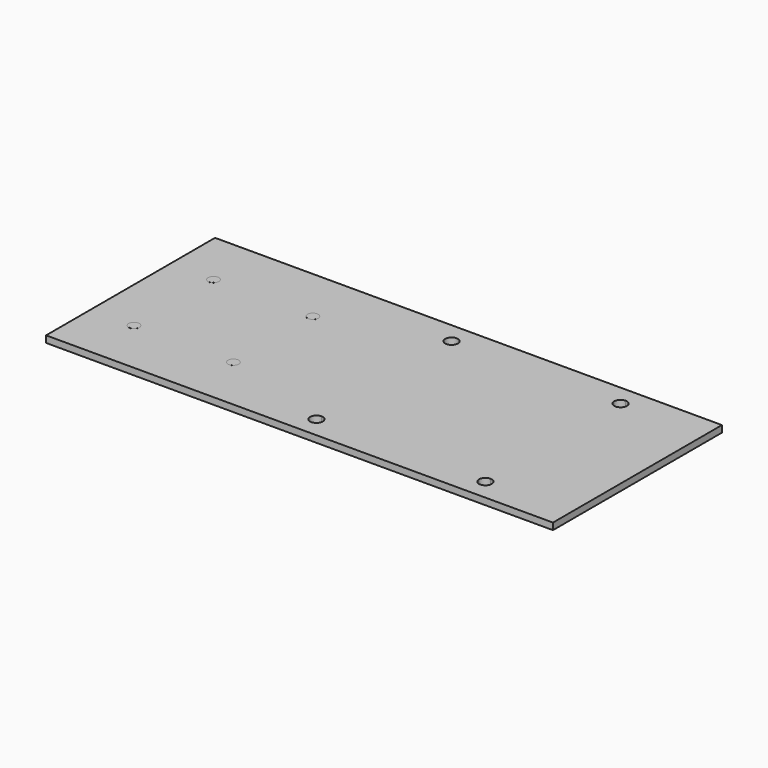
from build123d import *

# Parameters (mm, degrees)
F1_DEPTH = 3.175
F3_DEPTH = 0.01


with BuildPart() as f1:
    # F0 (on Top) → F1 (new body)
    with BuildSketch(Plane.XY):
        with BuildLine():
            Line((100, 43), (100, 50))
            Line((100, 50), (-100, 50))
            Line((-100, 50), (-100, -50))
            Line((-100, -50), (100, -50))
            Line((100, -50), (100, -43))
            ThreePointArc((100, -43), (97.8786796564, -42.1213203436), (97, -40))
            Line((97, -40), (60, -40))
            Line((60, -40), (23, -40))
            ThreePointArc((23, -40), (17.8786796564, -42.1213203436), (20, -37))
            Line((20, -37), (20, 0))
            Line((20, 0), (20, 37))
            ThreePointArc((20, 37), (17.8786796564, 42.1213203436), (23, 40))
            Line((23, 40), (60, 40))
            Line((60, 40), (97, 40))
            ThreePointArc((97, 40), (97.8786796564, 42.1213203436), (100, 43))
        make_face()
        Polygon((-31.475, 28.525), (-31.475, 0), (-31.475, -28.525), (-88.525, -28.525), (-88.525, 28.525), align=None, mode=Mode.SUBTRACT)
        with BuildLine():
            Line((140, 50), (100, 50))
            Line((100, 50), (100, 43))
            ThreePointArc((100, 43), (102.1213203436, 42.1213203436), (103, 40))
            ThreePointArc((103, 40), (102.1213203436, 37.8786796564), (100, 37))
            Line((100, 37), (100, 0))
            Line((100, 0), (100, -37))
            ThreePointArc((100, -37), (102.1213203436, -37.8786796564), (103, -40))
            ThreePointArc((103, -40), (102.1213203436, -42.1213203436), (100, -43))
            Line((100, -43), (100, -50))
            Line((100, -50), (140, -50))
            Line((140, -50), (140, 50))
        make_face()
        Polygon((-31.475, -28.525), (-31.475, 0), (-31.475, 28.525), (-88.525, 28.525), (-88.525, -28.525), align=None)
        with BuildLine():
            Line((60, 0), (60, 40))
            Line((60, 40), (23, 40))
            ThreePointArc((23, 40), (22.1213203436, 37.8786796564), (20, 37))
            Line((20, 37), (20, 0))
            Line((20, 0), (60, 0))
        make_face()
        with BuildLine():
            Line((60, -40), (60, 0))
            Line((60, 0), (20, 0))
            Line((20, 0), (20, -37))
            ThreePointArc((20, -37), (22.1213203436, -37.8786796564), (23, -40))
            Line((23, -40), (60, -40))
        make_face()
        with BuildLine():
            Line((100, -37), (100, 0))
            Line((100, 0), (60, 0))
            Line((60, 0), (60, -40))
            Line((60, -40), (97, -40))
            ThreePointArc((97, -40), (97.8786796564, -37.8786796564), (100, -37))
        make_face()
        with BuildLine():
            ThreePointArc((100, 37), (97.8786796564, 37.8786796564), (97, 40))
            Line((97, 40), (60, 40))
            Line((60, 40), (60, 0))
            Line((60, 0), (100, 0))
            Line((100, 0), (100, 37))
        make_face()
    extrude(amount=F1_DEPTH)

    # F2 (on face) → F3 (join)
    with BuildSketch(Plane.XY.offset(3.175)):
        with BuildLine():
            ThreePointArc((-76.9986703683, 23.5249995202), (-78.5728276158, 25.8808923281), (-81.3517926604, 25.3281218122))
            ThreePointArc((-81.3517926604, 25.3281218122), (-80.5245131209, 21.1691067123), (-76.9986703683, 23.5249995202))
        make_face()
        with BuildLine():
            ThreePointArc((-76.9987198658, -23.5250468828), (-80.5245626183, -21.1691540749), (-81.3518421578, -25.3281691748))
            ThreePointArc((-81.3518421578, -25.3281691748), (-78.5728771133, -25.8809396907), (-76.9987198658, -23.5250468828))
        make_face()
        with BuildLine():
            ThreePointArc((-29.9486239653, -23.5250468828), (-34.8545167732, -22.5492041303), (-30.6955016733, -25.3281691748))
            ThreePointArc((-30.6955016733, -25.3281691748), (-30.1427311574, -24.5008896353), (-29.9486239653, -23.5250468828))
        make_face()
        with BuildLine():
            ThreePointArc((-29.9486239653, 23.5250490177), (-30.1427311574, 24.5008917702), (-30.6955016733, 25.3281713097))
            ThreePointArc((-30.6955016733, 25.3281713097), (-34.8545167732, 22.5492062651), (-29.9486239653, 23.5250490177))
        make_face()
    extrude(amount=F3_DEPTH)


solid = f1.part
